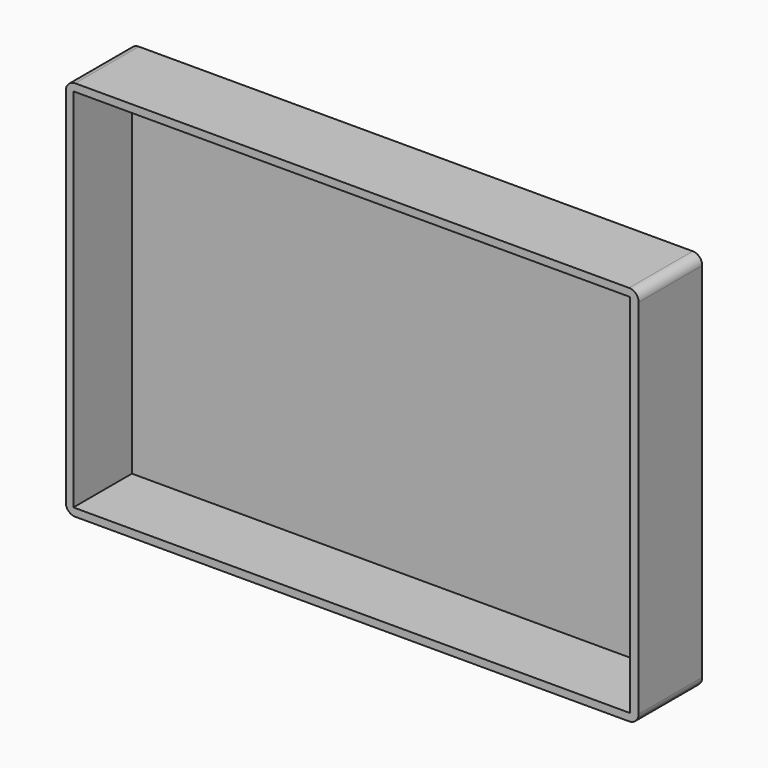
from build123d import *

# Parameters (mm, degrees)
F1_DEPTH  = 25
F2_DEPTH  = 25
F3_DEPTH  = 25
F4_DEPTH  = 25
F5_DEPTH  = 25
F6_DEPTH  = 25
F7_DEPTH  = 25
F8_DEPTH  = 25
F0_W      = 87.680131197
F0_H      = 57.6011836529
F0_W_2    = 87.3793363571
F9_DEPTH  = 2
F10_DEPTH = 2
F11_DEPTH = 2
F12_DEPTH = 2
F13_R     = 3
F14_R     = 3
F15_R     = 3
F16_R     = 3


with BuildPart() as f1:
    # F0 (on Front) → F1 (new body)
    with BuildSketch(Plane.XZ):
        Polygon((0, 57.6011836529), (0, 60.0075013936), (-90.0864452124, 60.0075013936), (-87.680131197, 57.6011836529), align=None)
    extrude(amount=F1_DEPTH)

    # F0 (on Front) → F2 (join)
    with BuildSketch(Plane.XZ):
        Polygon((87.3793363571, 57.6011836529), (90.0864452124, 60.0075013936), (0, 60.0075013936), (0, 57.6011836529), align=None)
    extrude(amount=F2_DEPTH)

    # F0 (on Front) → F3 (join)
    with BuildSketch(Plane.XZ):
        Polygon((-87.680131197, 57.6011836529), (-90.0864452124, 60.0075013936), (-90.0864452124, 0), (-87.680131197, 0), align=None)
    extrude(amount=F3_DEPTH)

    # F0 (on Front) → F4 (join)
    with BuildSketch(Plane.XZ):
        Polygon((-87.680131197, 0), (-90.0864452124, 0), (-90.0864452124, -60.0075013936), (-87.680131197, -57.6011836529), align=None)
    extrude(amount=F4_DEPTH)

    # F0 (on Front) → F5 (join)
    with BuildSketch(Plane.XZ):
        Polygon((-90.0864452124, -60.0075013936), (-0.1503974199, -60.0075013936), (-0.1503974199, -57.6011836529), (-87.680131197, -57.6011836529), align=None)
    extrude(amount=F5_DEPTH)

    # F0 (on Front) → F6 (join)
    with BuildSketch(Plane.XZ):
        Polygon((-0.1503974199, -60.0075013936), (90.0864452124, -60.0075013936), (87.3793363571, -57.6011836529), (-0.1503974199, -57.6011836529), align=None)
    extrude(amount=F6_DEPTH)

    # F0 (on Front) → F7 (join)
    with BuildSketch(Plane.XZ):
        Polygon((90.0864452124, 0), (90.0864452124, 60.0075013936), (87.3793363571, 57.6011836529), (87.3793363571, 0), align=None)
    extrude(amount=F7_DEPTH)

    # F0 (on Front) → F8 (join)
    with BuildSketch(Plane.XZ):
        Polygon((90.0864452124, -60.0075013936), (90.0864452124, 0), (87.3793363571, 0), (87.3793363571, -57.6011836529), align=None)
    extrude(amount=F8_DEPTH)

    # F0 (on Front) → F9 (join)
    with BuildSketch(Plane.XZ):
        with Locations((-43.8400655985, 28.8005918264)):
            Rectangle(F0_W, F0_H)
        with Locations((43.6896681786, 28.8005918264)):
            Rectangle(F0_W_2, F0_H)
    extrude(amount=F9_DEPTH)

    # F0 (on Front) → F10 (join)
    with BuildSketch(Plane.XZ):
        with Locations((43.6896681786, 28.8005918264)):
            Rectangle(F0_W_2, F0_H)
    extrude(amount=F10_DEPTH)

    # F0 (on Front) → F11 (join)
    with BuildSketch(Plane.XZ):
        Polygon((-0.1503974199, -57.6011836529), (0, 0), (-87.680131197, 0), (-87.680131197, -57.6011836529), align=None)
    extrude(amount=F11_DEPTH)

    # F0 (on Front) → F12 (join)
    with BuildSketch(Plane.XZ):
        Polygon((87.3793363571, -57.6011836529), (87.3793363571, 0), (0, 0), (-0.1503974199, -57.6011836529), align=None)
    extrude(amount=F12_DEPTH)

    # F13
    f13_edges = [f1.edges().sort_by_distance(p)[0] for p in [
        (-90.086445, -12.5, 60.007501),
    ]]
    fillet(f13_edges, radius=F13_R)

    # F14
    f14_edges = [f1.edges().sort_by_distance(p)[0] for p in [
        (90.086445, -12.5, 60.007501),
    ]]
    fillet(f14_edges, radius=F14_R)

    # F15
    f15_edges = [f1.edges().sort_by_distance(p)[0] for p in [
        (90.086445, -12.5, -60.007501),
    ]]
    fillet(f15_edges, radius=F15_R)

    # F16
    f16_edges = [f1.edges().sort_by_distance(p)[0] for p in [
        (-90.086445, -12.5, -60.007501),
    ]]
    fillet(f16_edges, radius=F16_R)


solid = f1.part
